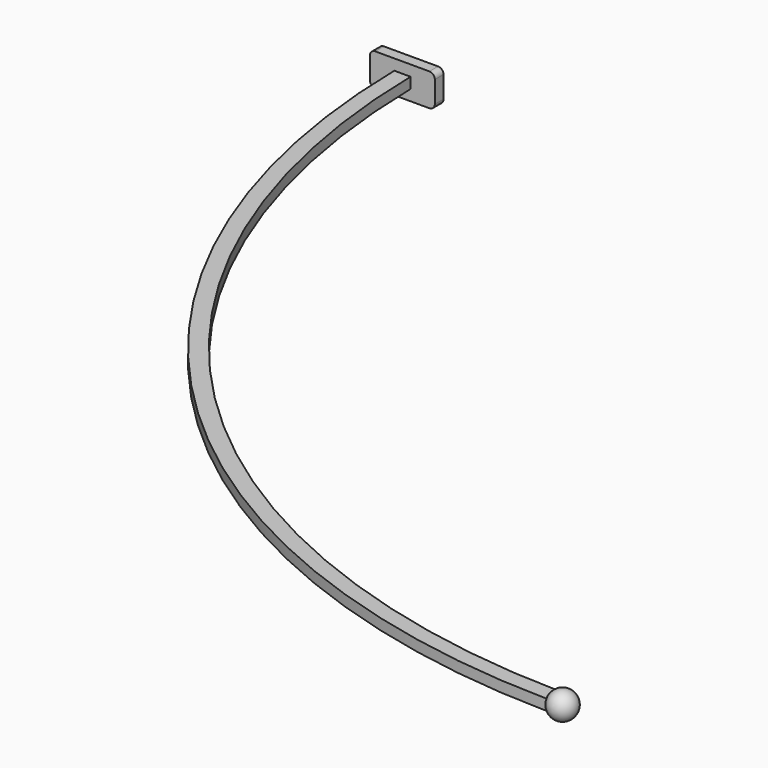
from build123d import *

# Parameters (mm, degrees)
PAD_DEPTH    = 0.25
PAD001_DEPTH = 0.5


with BuildPart() as part:
    # Sketch → Pad (new body, symmetric)
    with BuildSketch(Plane.XY):
        with BuildLine():
            Line((-0.375, 0), (0, 0))
            Line((0, 0), (0.375, 0))
            ThreePointArc((0.375, 0), (10.516428, -24.483572), (35, -34.625))
            Line((35, -34.625), (35, -35))
            Line((35, -35), (35, -35.375))
            ThreePointArc((-0.375, 0), (9.986098, -25.013902), (35, -35.375))
        make_face()
    extrude(amount=PAD_DEPTH, both=True)

    # Sketch001 (on DatumPlane) → Revolution (revolve)
    with BuildSketch(Plane(origin=(35, -35, 0), x_dir=(0, 1, 0), z_dir=(1, 0, 0))):
        with BuildLine():
            ThreePointArc((0, 0.625), (-0.625, 0), (0, -0.625))
            Line((0, 0), (0, -0.625))
            Line((0, 0.625), (0, 0))
        make_face()
    revolve(axis=Axis((35, -35, 0), (0, 0, -1)))

    # Sketch002 → Pad001 (join)
    with BuildSketch(Plane.XZ):
        with BuildLine():
            ThreePointArc((-1.25, 0.75), (-1.426777, 0.676777), (-1.5, 0.5))
            Line((-1.5, -0.5), (-1.5, 0.5))
            ThreePointArc((-1.5, -0.5), (-1.426777, -0.676777), (-1.25, -0.75))
            Line((1.25, -0.75), (-1.25, -0.75))
            ThreePointArc((1.25, -0.75), (1.426777, -0.676777), (1.5, -0.5))
            Line((1.5, 0.5), (1.5, -0.5))
            ThreePointArc((1.5, 0.5), (1.426777, 0.676777), (1.25, 0.75))
            Line((-1.25, 0.75), (1.25, 0.75))
        make_face()
    extrude(amount=PAD001_DEPTH)


solid = part.part
